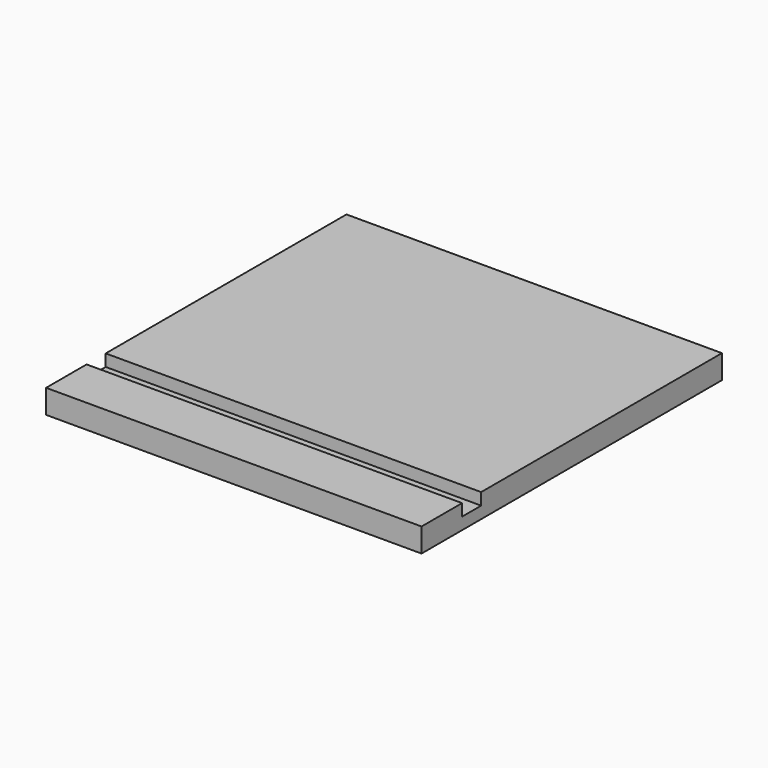
from build123d import *

# Parameters (mm, degrees)
SKETCH_W     = 300
SKETCH_H     = 300
PAD_DEPTH    = 19.05
SKETCH001_W  = 19.05
SKETCH001_H  = 9.525
POCKET_DEPTH = 300.001


with BuildPart() as part:
    # Sketch → Pad (new body)
    with BuildSketch(Plane.XY):
        with Locations((150, 150)):
            Rectangle(SKETCH_W, SKETCH_H)
    extrude(amount=PAD_DEPTH)

    # Sketch001 (on Face2 of Pad) → Pocket (cut, through all)
    with BuildSketch(Plane.YZ.offset(300)):
        with Locations((50, 14.2875)):
            Rectangle(SKETCH001_W, SKETCH001_H)
    extrude(amount=-POCKET_DEPTH, mode=Mode.SUBTRACT)


solid = part.part
